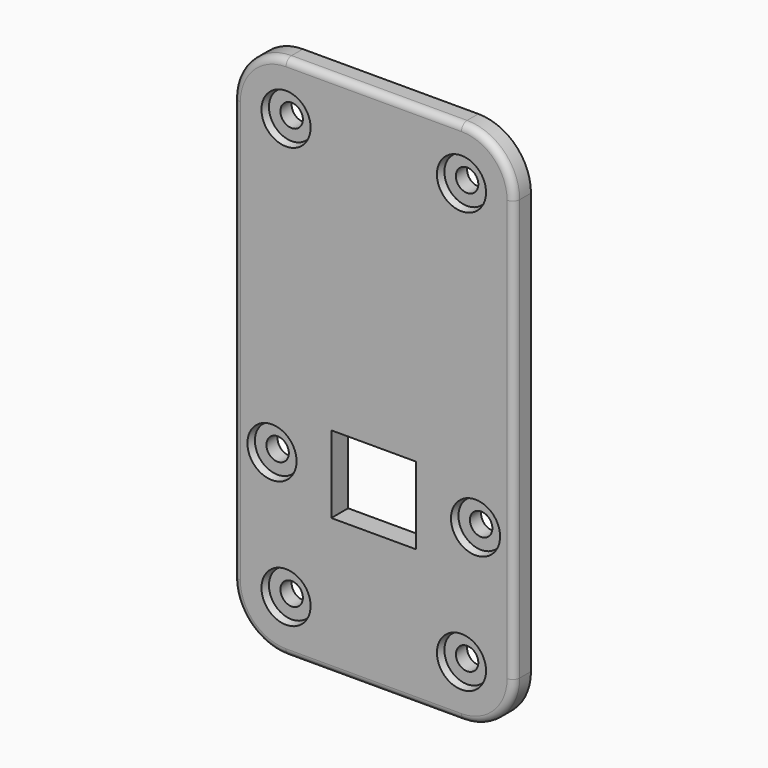
from build123d import *

# Parameters (mm, degrees)
F0_W     = 40
F0_H     = 75
F0_R     = 1.6
F0_W_2   = 12.1
F0_H_2   = 11
F1_DEPTH = 3
F2_R     = 7.5
F3_R     = 3.5
F4_DEPTH = 1
F4_TAPER = 15
F5_R     = 1


with BuildPart() as f1:
    # F0 (on Front) → F1 (new body)
    with BuildSketch(Plane.XZ):
        with Locations((20, 37.5)):
            Rectangle(F0_W, F0_H)
        with Locations((7.5, 7.5)):
            Circle(F0_R, mode=Mode.SUBTRACT)
        with Locations((5.5, 25)):
            Circle(F0_R, mode=Mode.SUBTRACT)
        with Locations((32.5, 7.5)):
            Circle(F0_R, mode=Mode.SUBTRACT)
        with Locations((20, 25)):
            Rectangle(F0_W_2, F0_H_2, mode=Mode.SUBTRACT)
        with Locations((34.5, 25)):
            Circle(F0_R, mode=Mode.SUBTRACT)
        with Locations((7.5, 67.5)):
            Circle(F0_R, mode=Mode.SUBTRACT)
        with Locations((32.5, 67.5)):
            Circle(F0_R, mode=Mode.SUBTRACT)
    extrude(amount=F1_DEPTH)

    # F2
    f2_edges = [f1.edges().sort_by_distance(p)[0] for p in [
        (40, -1.5, 75),
        (40, -1.5, 0),
        (0, -1.5, 0),
        (0, -1.5, 75),
    ]]
    fillet(f2_edges, radius=F2_R)

    # F3 (on face) → F4 (cut)
    with BuildSketch(Plane.XZ.offset(3)):
        with Locations((7.5, 67.5)):
            Circle(F3_R)
        with Locations((32.5, 67.5)):
            Circle(F3_R)
        with Locations((5.5, 25)):
            Circle(F3_R)
        with Locations((32.5, 7.5)):
            Circle(F3_R)
        with Locations((7.5, 7.5)):
            Circle(F3_R)
        with Locations((34.5, 25)):
            Circle(F3_R)
    extrude(amount=-F4_DEPTH, taper=F4_TAPER, mode=Mode.SUBTRACT)

    # F5
    f5_edges = [f1.edges().sort_by_distance(p)[0] for p in [
        (20, -3, 0),
    ]]
    fillet(f5_edges, radius=F5_R)


solid = f1.part
